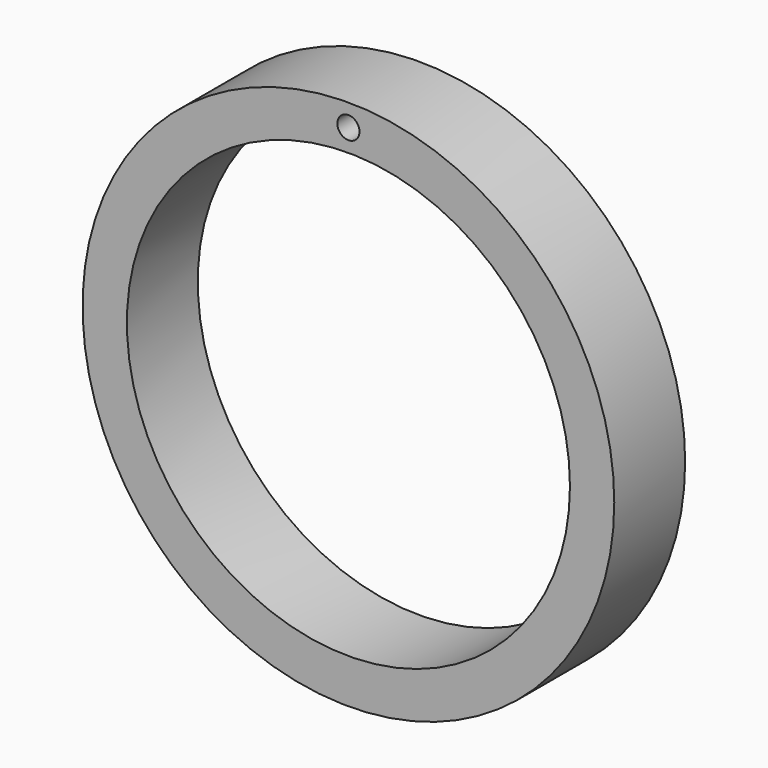
from build123d import *

# Parameters (mm, degrees)
F0_R     = 152.4
F0_R_2   = 127
F0_R_3   = 6.35
F1_DEPTH = 50.8


with BuildPart() as f1:
    # F0 (on Front) → F1 (new body)
    with BuildSketch(Plane.XZ):
        Circle(F0_R)
        Circle(F0_R_2, mode=Mode.SUBTRACT)
        with Locations((0, 139.7)):
            Circle(F0_R_3, mode=Mode.SUBTRACT)
    extrude(amount=F1_DEPTH)


solid = f1.part
